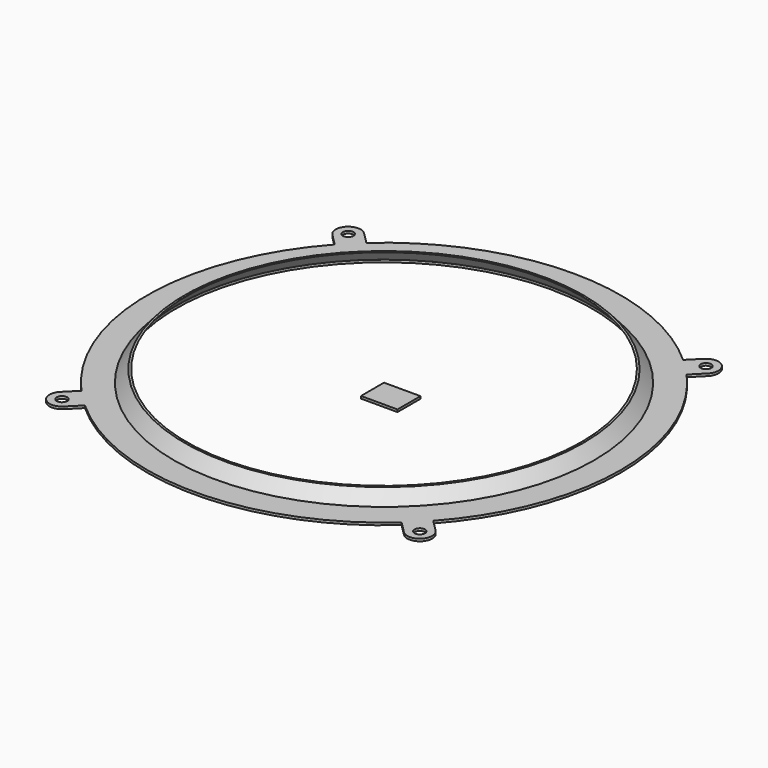
from build123d import *

# Parameters (mm, degrees)
F0_R     = 2.2
F1_DEPTH = 1
F0_W     = 15.265275
F0_H     = 12.039403
F3_DEPTH = 1


with BuildPart() as f1:
    # F0 (on Top) → F1 (new body)
    with BuildSketch(Plane.XY):
        with BuildLine():
            Line((94.565999, 82.270926), (99.470974, 87.175902))
            ThreePointArc((99.470974, 87.175902), (99.470974, 94.529813), (92.117064, 94.529813))
            Line((92.117064, 94.529813), (87.212088, 89.624837))
            ThreePointArc((87.212088, 89.624837), (56.457245, 108.465132), (20.994019, 115.036032))
            Line((20.994019, 115.036032), (20.994019, 103.036032))
            ThreePointArc((20.994019, 103.036032), (82.500412, 77.55925), (107.977194, 16.052857))
            Line((107.977194, 16.052857), (119.977194, 16.052857))
            ThreePointArc((119.977194, 16.052857), (113.406294, 51.516083), (94.565999, 82.270926))
        make_face()
        with Locations((95.794019, 90.852857)):
            Circle(F0_R, mode=Mode.SUBTRACT)
    extrude(amount=F1_DEPTH)

    # F0 (on Top) → F3 (join)
    with BuildSketch(Plane.XY):
        with BuildLine():
            Line((94.565999, 82.270926), (99.470974, 87.175902))
            ThreePointArc((99.470974, 87.175902), (99.470974, 94.529813), (92.117064, 94.529813))
            Line((92.117064, 94.529813), (87.212088, 89.624837))
            ThreePointArc((87.212088, 89.624837), (56.457245, 108.465132), (20.994019, 115.036032))
            Line((20.994019, 115.036032), (20.994019, 103.036032))
            ThreePointArc((20.994019, 103.036032), (82.500412, 77.55925), (107.977194, 16.052857))
            Line((107.977194, 16.052857), (119.977194, 16.052857))
            ThreePointArc((119.977194, 16.052857), (113.406294, 51.516083), (94.565999, 82.270926))
        make_face()
        with Locations((95.794019, 90.852857)):
            Circle(F0_R, mode=Mode.SUBTRACT)
        with BuildLine():
            ThreePointArc((94.565999, -50.165212), (113.406294, -19.410368), (119.977194, 16.052857))
            Line((119.977194, 16.052857), (107.977194, 16.052857))
            ThreePointArc((107.977194, 16.052857), (-40.512373, -45.453535), (20.994019, 103.036032))
            Line((20.994019, 103.036032), (20.994019, 115.036032))
            ThreePointArc((20.994019, 115.036032), (-14.469206, 108.465132), (-45.22405, 89.624837))
            Line((-45.22405, 89.624837), (-50.129026, 94.529813))
            ThreePointArc((-50.129026, 94.529813), (-57.482936, 94.529813), (-57.482936, 87.175902))
            Line((-57.482936, 87.175902), (-52.57796, 82.270926))
            ThreePointArc((-52.57796, 82.270926), (-77.989155, 16.052857), (-52.57796, -50.165212))
            Line((-52.57796, -50.165212), (-57.482936, -55.070187))
            ThreePointArc((-57.482936, -55.070187), (-57.482936, -62.424098), (-50.129026, -62.424098))
            Line((-50.129026, -62.424098), (-45.22405, -57.519122))
            ThreePointArc((-45.22405, -57.519122), (20.994019, -82.930317), (87.212088, -57.519122))
            Line((87.212088, -57.519122), (92.117064, -62.424098))
            ThreePointArc((92.117064, -62.424098), (99.470974, -62.424098), (99.470974, -55.070187))
            Line((99.470974, -55.070187), (94.565999, -50.165212))
        make_face()
        with Locations((-53.805981, -58.747143)):
            Circle(F0_R, mode=Mode.SUBTRACT)
        with Locations((95.794019, -58.747143)):
            Circle(F0_R, mode=Mode.SUBTRACT)
        with Locations((-53.805981, 90.852857)):
            Circle(F0_R, mode=Mode.SUBTRACT)
        with Locations((28.626656, 10.033155)):
            Rectangle(F0_W, F0_H)
    extrude(amount=F3_DEPTH)


with BuildPart() as f4:
    # F2 (on face) → F4 (revolve)
    with BuildSketch(Plane.XZ.offset(-16.052857)):
        Polygon((108.877194, 1), (104.477194, 6), (103.577194, 6), (107.977194, 1), align=None)
    revolve(axis=Axis((20.994019, 16.052857, 0.5), (0, 0, 1)))


solid = Compound([f1.part, f4.part])
